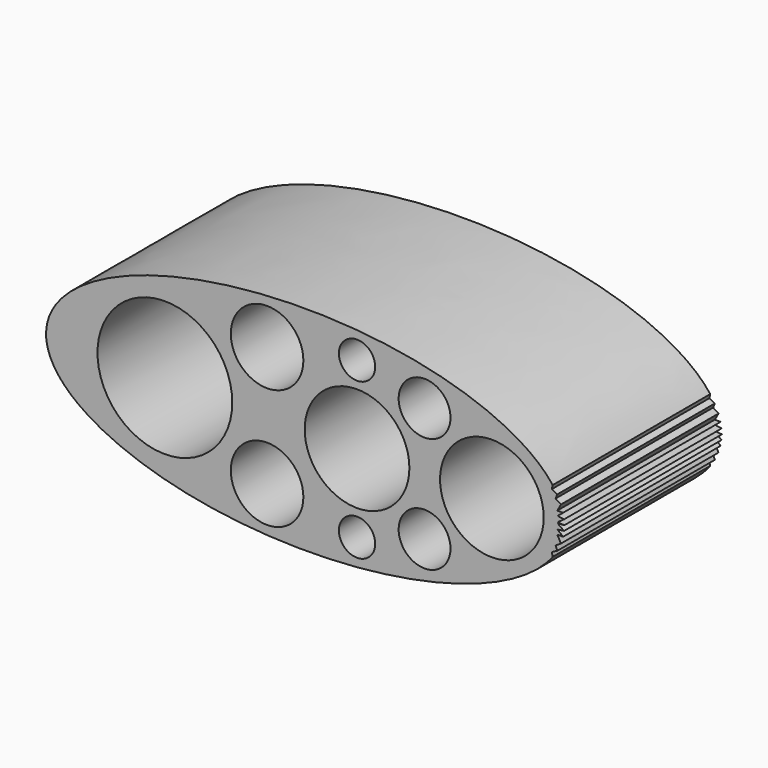
from build123d import *

# Parameters (mm, degrees)
F0_R     = 3.5
F0_R_2   = 1.75
F0_R_3   = 2.5
F0_R_4   = 6.5
F0_R_5   = 5.05
F0_R_6   = 5
F1_DEPTH = 19


with BuildPart() as f1:
    # F0 (on Front) → F1 (new body)
    with BuildSketch(Plane.XZ):
        with BuildLine():
            Line((-9.08399, 18.494449), (-8.432786, 18.543828))
            Line((-8.432786, 18.543828), (-9.08399, 18.593207))
            Line((-9.08399, 18.593207), (-8.461193, 19.03372))
            Line((-8.461193, 19.03372), (-9.08399, 19.127526))
            Line((-9.08399, 19.127526), (-8.555679, 19.561821))
            Line((-8.555679, 19.561821), (-9.120817, 19.560207))
            Line((-9.120817, 19.560207), (-8.760331, 20.202364))
            Line((-8.760331, 20.202364), (-9.278456, 20.535556))
            Line((-9.278456, 20.535556), (-9.120817, 20.938861))
            Line((-9.120817, 20.938861), (-9.649407, 21.208753))
            Line((-9.649407, 21.208753), (-9.5578, 21.592802))
            add(Edge.make_bspline(
                [(-9.5578, 21.592802), (-19.857645, 35.228686), (-48.039495, 26.886257), (-76.221345, 18.543828), (-48.039495, 10.201399), (-19.857645, 1.85897), (-9.5578, 15.494854)],
                knots=[0.301138, 0.301138, 0.301138, 2.194775, 2.194775, 4.088411, 4.088411, 5.982047, 5.982047, 5.982047], degree=2, weights=[1, 0.584268, 1, 0.584268, 1, 0.584268, 1]))
            Line((-9.5578, 15.494854), (-9.649407, 15.878904))
            Line((-9.649407, 15.878904), (-9.120817, 16.148795))
            Line((-9.120817, 16.148795), (-9.278456, 16.5521))
            Line((-9.278456, 16.5521), (-8.760331, 16.885293))
            Line((-8.760331, 16.885293), (-9.120817, 17.527449))
            Line((-9.120817, 17.527449), (-8.555679, 17.525836))
            Line((-8.555679, 17.525836), (-9.08399, 17.960131))
            Line((-9.08399, 17.960131), (-8.461193, 18.053936))
            Line((-8.461193, 18.053936), (-9.08399, 18.494449))
        make_face()
        with Locations((-37.111931, 12.737721)):
            Circle(F0_R, mode=Mode.SUBTRACT)
        with Locations((-28.432786, 11.025731)):
            Circle(F0_R_2, mode=Mode.SUBTRACT)
        with Locations((-21.918958, 12.985889)):
            Circle(F0_R_3, mode=Mode.SUBTRACT)
        with Locations((-46.972252, 18.543828)):
            Circle(F0_R_4, mode=Mode.SUBTRACT)
        with Locations((-37.111931, 24.349935)):
            Circle(F0_R, mode=Mode.SUBTRACT)
        with Locations((-28.432786, 18.543828)):
            Circle(F0_R_5, mode=Mode.SUBTRACT)
        with Locations((-15.425339, 18.543828)):
            Circle(F0_R_6, mode=Mode.SUBTRACT)
        with Locations((-28.432786, 26.061926)):
            Circle(F0_R_2, mode=Mode.SUBTRACT)
        with Locations((-21.918958, 24.101768)):
            Circle(F0_R_3, mode=Mode.SUBTRACT)
    extrude(amount=F1_DEPTH)


solid = f1.part
